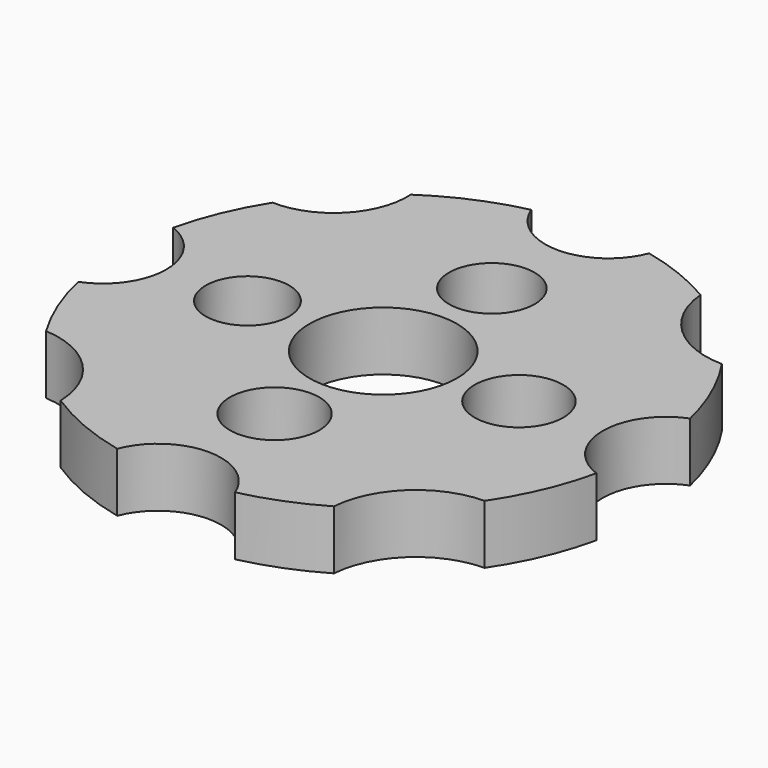
from build123d import *

# Parameters (mm, degrees)
F0_R     = 9.616889
F0_R_2   = 8.985077
F0_R_3   = 15.863609
F0_R_4   = 9.540201
F0_R_5   = 9.211903
F1_DEPTH = 6.35


with BuildPart() as f1:
    # F0 (on Top) → F1 (new body, symmetric)
    with BuildSketch(Plane.XY):
        with BuildLine():
            ThreePointArc((55.750749, -12.350976), (46.941552, 0.294295), (55.591506, 13.049024))
            ThreePointArc((55.591506, 13.049024), (52.341403, 22.826962), (47.387013, 31.861632))
            ThreePointArc((47.387013, 31.861632), (34.764291, 36.976449), (28.881476, 49.260054))
            ThreePointArc((28.881476, 49.260054), (21.028254, 53.089595), (12.682723, 55.676217))
            ThreePointArc((12.682723, 55.676217), (0, 46.99), (-12.682723, 55.676217))
            ThreePointArc((-12.682723, 55.676217), (-22.699262, 52.396909), (-31.942484, 47.33255))
            ThreePointArc((-31.942484, 47.33255), (-36.40324, 35.364075), (-48.237544, 30.558664))
            ThreePointArc((-48.237544, 30.558664), (-52.651044, 22.103398), (-55.595625, 13.031466))
            ThreePointArc((-55.595625, 13.031466), (-46.989078, 0.294335), (-55.754511, -12.333979))
            ThreePointArc((-55.754511, -12.333979), (-52.979063, -21.305198), (-48.770789, -29.700214))
            ThreePointArc((-48.770789, -29.700214), (-36.390639, -35.377041), (-31.065705, -47.912572))
            ThreePointArc((-31.065705, -47.912572), (-22.21598, -52.603639), (-12.682723, -55.676217))
            ThreePointArc((-12.682723, -55.676217), (0, -46.99), (12.682723, -55.676217))
            ThreePointArc((12.682723, -55.676217), (21.002263, -53.099882), (28.833236, -49.288306))
            ThreePointArc((28.833236, -49.288306), (34.727362, -37.011133), (47.354571, -31.90983))
            ThreePointArc((47.354571, -31.90983), (52.47203, -22.525068), (55.750749, -12.350976))
        make_face()
        with Locations((0, -29.21)):
            Circle(F0_R, mode=Mode.SUBTRACT)
        with Locations((-29.21, 0)):
            Circle(F0_R_2, mode=Mode.SUBTRACT)
        Circle(F0_R_3, mode=Mode.SUBTRACT)
        with Locations((29.21, 0)):
            Circle(F0_R_4, mode=Mode.SUBTRACT)
        with Locations((0, 29.21)):
            Circle(F0_R_5, mode=Mode.SUBTRACT)
    extrude(amount=F1_DEPTH, both=True)


solid = f1.part
